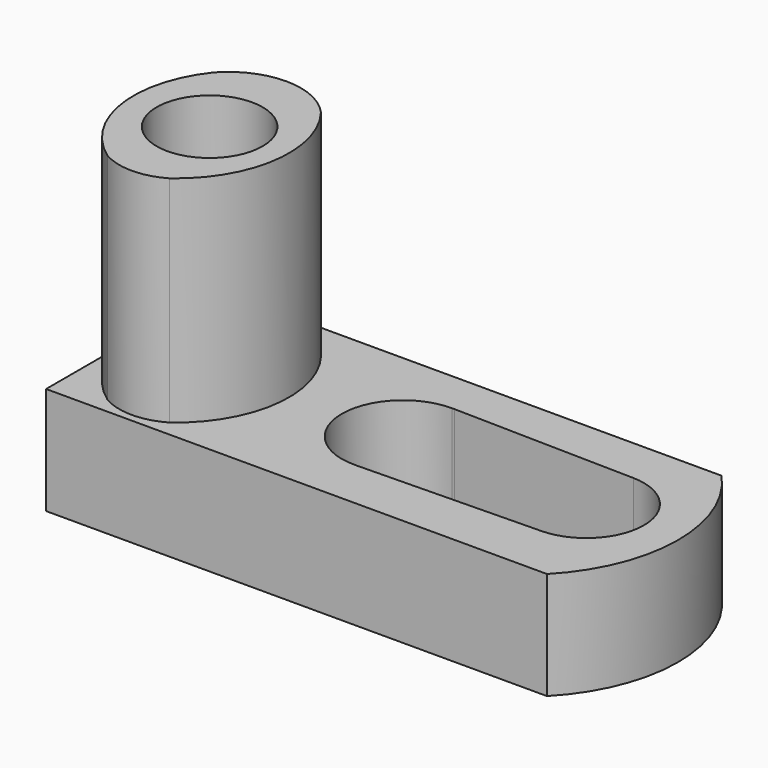
from build123d import *

# Parameters (mm, degrees)
F1_DEPTH  = 25.4
F2_R      = 6.2570868775
F3_DEPTH  = 25.4
F5_DEPTH  = 19.05
F7_DEPTH  = 19.05
F8_R      = 6.2570868775
F9_DEPTH  = 25.4
F11_DEPTH = 25.4


with BuildPart() as f1:
    # F0 (on Front) → F1 (new body)
    with BuildSketch(Plane.XZ):
        Polygon((-76.2, 0), (0, 0), (0, 12.7), (-57.15, 12.7), (-57.15, 38.1), (-76.2, 38.1), align=None)
    extrude(amount=F1_DEPTH)

    # F2 (on face) → F3 (cut)
    with BuildSketch(Plane.XY.offset(38.1)):
        with Locations((-66.675, -13.1544489413)):
            Circle(F2_R)
    extrude(amount=-F3_DEPTH, mode=Mode.SUBTRACT)

    # F4 (on face) → F5 (cut)
    with BuildSketch(Plane.XY.offset(12.7)):
        with BuildLine():
            ThreePointArc((-22.7675971567, -5.4390591716), (-29.692432865, -12.2261255428), (-22.7671458535, -19.0127314193))
            ThreePointArc((-22.7671458535, -19.0127314193), (-18.0560040915, -16.977183947), (-16.1160016177, -12.2258998454))
            ThreePointArc((-16.1160016177, -12.2258998454), (-18.0561620669, -7.4744545509), (-22.7675971567, -5.4390591716))
        make_face()
        with BuildLine():
            Line((-44.2795754893, -5.0060199297), (-44.5703677833, -5.0001662387))
            ThreePointArc((-44.5703677833, -5.0001662387), (-51.7956349782, -12.3079980641), (-44.4061819446, -19.449767865))
            ThreePointArc((-44.4061819446, -19.449767865), (-39.4032801468, -17.2768830676), (-37.3446341766, -12.2258998454))
            ThreePointArc((-37.3446341766, -12.2258998454), (-39.3592060219, -7.220400944), (-44.2795754893, -5.0060199297))
        make_face()
        with BuildLine():
            ThreePointArc((-37.3446341766, -12.2258998454), (-39.4032801468, -17.2768830676), (-44.4061819446, -19.449767865))
            Line((-44.4061819446, -19.449767865), (-22.7671458535, -19.0127314193))
            ThreePointArc((-22.7671458535, -19.0127314193), (-29.692432865, -12.2261255428), (-22.7675971567, -5.4390591716))
            Line((-22.7675971567, -5.4390591716), (-44.2795754893, -5.0060199297))
            ThreePointArc((-44.2795754893, -5.0060199297), (-39.3592060219, -7.220400944), (-37.3446341766, -12.2258998454))
        make_face()
    extrude(amount=-F5_DEPTH, mode=Mode.SUBTRACT)

    # F6 (on face) → F7 (cut)
    with BuildSketch(Plane.XY.offset(12.7)):
        with BuildLine():
            ThreePointArc((-16.7138874531, 0), (-11.8080190768, -12.761667067), (-17.0234031975, -25.4))
            Line((-17.0234031975, -25.4), (0, -25.4))
            Line((0, -25.4), (0, 0))
            Line((0, 0), (-16.7138874531, 0))
        make_face()
    extrude(amount=-F7_DEPTH, mode=Mode.SUBTRACT)

    # F8 (on face) → F9 (cut)
    with BuildSketch(Plane.XY.offset(38.1)):
        with BuildLine():
            ThreePointArc((-66.675, 0), (-57.6500295177, -12.7), (-66.675, -25.4))
            Line((-66.675, -25.4), (-57.15, -25.4))
            Line((-57.15, -25.4), (-57.15, 0))
            Line((-57.15, 0), (-66.675, 0))
        make_face()
        with BuildLine():
            Line((-76.2, -25.4), (-66.675, -25.4))
            ThreePointArc((-66.675, -25.4), (-76.0323616205, -12.7), (-66.675, 0))
            Line((-66.675, 0), (-76.2, 0))
            Line((-76.2, 0), (-76.2, -25.4))
        make_face()
        with Locations((-66.675, -13.1544489413)):
            Circle(F8_R)
    extrude(amount=-F9_DEPTH, mode=Mode.SUBTRACT)

    # F10 (on face) → F11 (cut)
    with BuildSketch(Plane.XY.offset(38.1)):
        with BuildLine():
            ThreePointArc((-73.1792891103, -4.4698874424), (-66.811491799, -1.6448572711), (-60.4505532037, -4.4852970704))
            ThreePointArc((-60.4505532037, -4.4852970704), (-63.2361374685, -1.7893568412), (-66.675, 0))
            ThreePointArc((-66.675, 0), (-70.2664103908, -1.7412661714), (-73.1792891103, -4.4698874424))
        make_face()
        with BuildLine():
            ThreePointArc((-66.675, -25.4), (-64.8290367019, -24.5975628429), (-63.1235156823, -23.5285988862))
            ThreePointArc((-63.1235156823, -23.5285988862), (-66.7799965121, -24.5102265659), (-70.439013249, -23.5380941269))
            ThreePointArc((-70.439013249, -23.5380941269), (-68.6309718215, -24.6185744834), (-66.675, -25.4))
        make_face()
    extrude(amount=-F11_DEPTH, mode=Mode.SUBTRACT)


solid = f1.part
